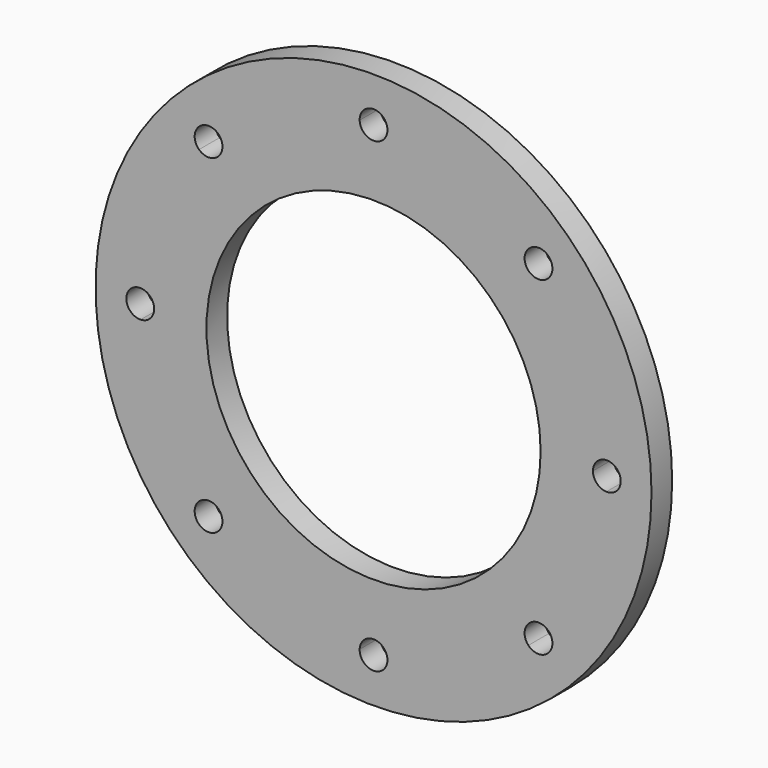
from build123d import *

# Parameters (mm, degrees)
F0_R     = 140
F0_R_2   = 84.15
F1_DEPTH = 13


with BuildPart() as f1:
    # F0 (on Front) → F1 (new body)
    with BuildSketch(Plane.XZ):
        Circle(F0_R)
        with BuildLine():
            ThreePointArc((117.291489, 6.996894), (122.375471, 5.022926), (124.5, 0))
            ThreePointArc((124.5, 0), (122.375471, -5.022926), (117.291489, -6.996894))
            ThreePointArc((117.291489, -6.996894), (108.555845, -44.965303), (87.885159, -77.990056))
            ThreePointArc((87.885159, -77.990056), (89.511585, -80.31023), (90.085047, -83.085047))
            ThreePointArc((90.085047, -83.085047), (85.667204, -89.591387), (77.990056, -87.885159))
            ThreePointArc((77.990056, -87.885159), (44.965303, -108.555845), (6.996894, -117.291489))
            ThreePointArc((6.996894, -117.291489), (6.999223, -117.395733), (7, -117.5))
            ThreePointArc((7, -117.5), (-0.104267, -124.499223), (-6.996894, -117.291489))
            ThreePointArc((-6.996894, -117.291489), (-44.965303, -108.555845), (-77.990056, -87.885159))
            ThreePointArc((-77.990056, -87.885159), (-88.034794, -88.034794), (-87.885159, -77.990056))
            ThreePointArc((-87.885159, -77.990056), (-108.555845, -44.965303), (-117.291489, -6.996894))
            ThreePointArc((-117.291489, -6.996894), (-124.5, 0), (-117.291489, 6.996894))
            ThreePointArc((-117.291489, 6.996894), (-108.555845, 44.965303), (-87.885159, 77.990056))
            ThreePointArc((-87.885159, 77.990056), (-88.034794, 88.034794), (-77.990056, 87.885159))
            ThreePointArc((-77.990056, 87.885159), (-44.965303, 108.555845), (-6.996894, 117.291489))
            ThreePointArc((-6.996894, 117.291489), (-0.104267, 124.499223), (7, 117.5))
            ThreePointArc((7, 117.5), (6.999223, 117.395733), (6.996894, 117.291489))
            ThreePointArc((6.996894, 117.291489), (44.965303, 108.555845), (77.990056, 87.885159))
            ThreePointArc((77.990056, 87.885159), (85.667204, 89.591387), (90.085047, 83.085047))
            ThreePointArc((90.085047, 83.085047), (89.511585, 80.31023), (87.885159, 77.990056))
            ThreePointArc((87.885159, 77.990056), (108.555845, 44.965303), (117.291489, 6.996894))
        make_face(mode=Mode.SUBTRACT)
        with BuildLine():
            ThreePointArc((110.5, 0), (112.477074, 4.875471), (117.291489, 6.996894))
            ThreePointArc((117.291489, 6.996894), (108.555845, 44.965303), (87.885159, 77.990056))
            ThreePointArc((87.885159, 77.990056), (78.135299, 78.135299), (77.990056, 87.885159))
            ThreePointArc((77.990056, 87.885159), (44.965303, 108.555845), (6.996894, 117.291489))
            ThreePointArc((6.996894, 117.291489), (0, 110.5), (-6.996894, 117.291489))
            ThreePointArc((-6.996894, 117.291489), (-44.965303, 108.555845), (-77.990056, 87.885159))
            ThreePointArc((-77.990056, 87.885159), (-76.578706, 85.667204), (-76.085047, 83.085047))
            ThreePointArc((-76.085047, 83.085047), (-80.31023, 76.658509), (-87.885159, 77.990056))
            ThreePointArc((-87.885159, 77.990056), (-108.555845, 44.965303), (-117.291489, 6.996894))
            ThreePointArc((-117.291489, 6.996894), (-112.477074, 4.875471), (-110.5, 0))
            ThreePointArc((-110.5, 0), (-112.477074, -4.875471), (-117.291489, -6.996894))
            ThreePointArc((-117.291489, -6.996894), (-108.555845, -44.965303), (-87.885159, -77.990056))
            ThreePointArc((-87.885159, -77.990056), (-80.31023, -76.658509), (-76.085047, -83.085047))
            ThreePointArc((-76.085047, -83.085047), (-76.578706, -85.667204), (-77.990056, -87.885159))
            ThreePointArc((-77.990056, -87.885159), (-44.965303, -108.555845), (-6.996894, -117.291489))
            ThreePointArc((-6.996894, -117.291489), (0, -110.5), (6.996894, -117.291489))
            ThreePointArc((6.996894, -117.291489), (44.965303, -108.555845), (77.990056, -87.885159))
            ThreePointArc((77.990056, -87.885159), (78.135299, -78.135299), (87.885159, -77.990056))
            ThreePointArc((87.885159, -77.990056), (108.555845, -44.965303), (117.291489, -6.996894))
            ThreePointArc((117.291489, -6.996894), (112.477074, -4.875471), (110.5, 0))
        make_face()
        Circle(F0_R_2, mode=Mode.SUBTRACT)
    extrude(amount=F1_DEPTH)


solid = f1.part
